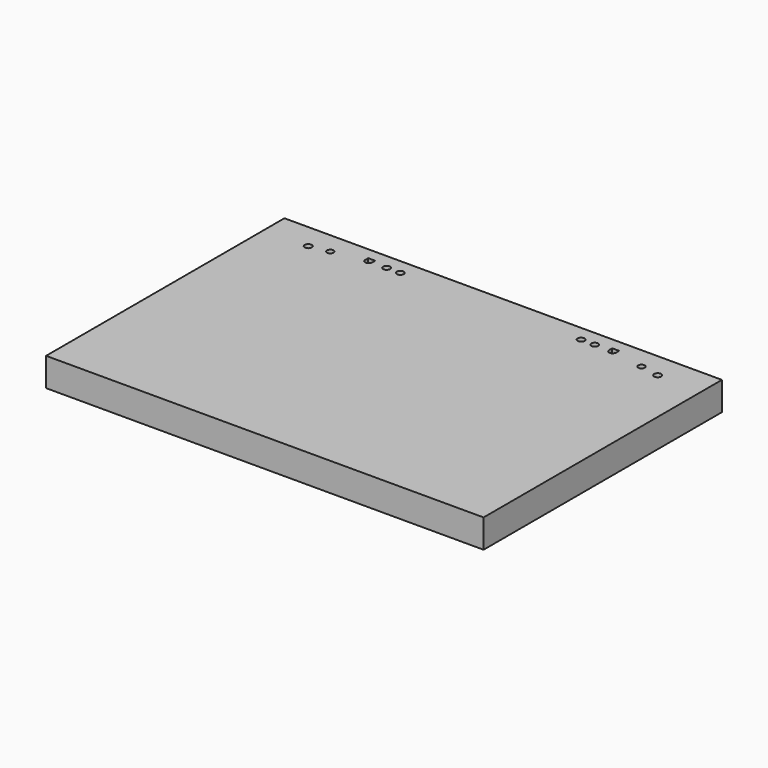
from build123d import *

# Parameters (mm, degrees)
F0_W     = 192.0875
F0_H     = 261.62
F0_R     = 3.048
F0_R_2   = 2.8575
F0_R_3   = 3.1115
F1_DEPTH = 25


with BuildPart() as f1:
    # F0 (on Top) → F1 (new body)
    with BuildSketch(Plane.XY):
        with Locations((-97.6657310909, -15.2465730985)):
            Rectangle(F0_W, F0_H)
        Polygon((-159.5464810909, 107.4395775795), (-75.4724810909, 107.4395775795), (-75.4724810909, 88.3854269015), (-159.5464810909, 88.3854269015), (-159.5464810909, 100.9584269015), align=None, mode=Mode.SUBTRACT)
        with Locations((94.4217689091, -15.2465730985)):
            Rectangle(F0_W, F0_H)
        Polygon((156.3025189091, 88.3854269015), (72.2285189091, 88.3854269015), (72.2285189091, 107.4395775795), (156.3025189091, 107.4395775795), (156.3025189091, 100.9584269015), align=None, mode=Mode.SUBTRACT)
        Polygon((72.2285189091, 107.4395775795), (72.2285189091, 88.3854269015), (156.3025189091, 88.3854269015), (156.3025189091, 100.9584269015), (156.3025189091, 107.4395775795), align=None)
        with Locations((77.7657189091, 101.8474269015)):
            Circle(F0_R, mode=Mode.SUBTRACT)
        with Locations((89.7545189091, 101.8474269015)):
            Circle(F0_R, mode=Mode.SUBTRACT)
        with Locations((135.0300189091, 96.5769269015)):
            Circle(F0_R_2, mode=Mode.SUBTRACT)
        with BuildLine():
            ThreePointArc((108.5505189091, 101.8474269015), (105.5025189091, 98.7994269015), (102.4545189091, 101.8474269015))
            Line((102.4545189091, 101.8474269015), (102.4545189091, 105.1494269015))
            Line((102.4545189091, 105.1494269015), (108.5505189091, 105.1494269015))
            Line((108.5505189091, 105.1494269015), (108.5505189091, 101.8474269015))
        make_face(mode=Mode.SUBTRACT)
        with Locations((151.7940189091, 93.4019269015)):
            Circle(F0_R_3, mode=Mode.SUBTRACT)
        Polygon((-75.4724810909, 88.3854269015), (-75.4724810909, 107.4395775795), (-159.5464810909, 107.4395775795), (-159.5464810909, 100.9584269015), (-159.5464810909, 88.3854269015), align=None)
        with Locations((-155.0379810909, 93.4019269015)):
            Circle(F0_R_3, mode=Mode.SUBTRACT)
        with Locations((-138.2739810909, 96.5769269015)):
            Circle(F0_R_2, mode=Mode.SUBTRACT)
        with BuildLine():
            Line((-105.6984810909, 105.1494269015), (-105.6984810909, 101.8474269015))
            ThreePointArc((-105.6984810909, 101.8474269015), (-108.7464810909, 98.7994269015), (-111.7944810909, 101.8474269015))
            Line((-111.7944810909, 101.8474269015), (-111.7944810909, 105.1494269015))
            Line((-111.7944810909, 105.1494269015), (-105.6984810909, 105.1494269015))
        make_face(mode=Mode.SUBTRACT)
        with Locations((-92.9984810909, 101.8474269015)):
            Circle(F0_R, mode=Mode.SUBTRACT)
        with Locations((-81.0096810909, 101.8474269015)):
            Circle(F0_R, mode=Mode.SUBTRACT)
    extrude(amount=F1_DEPTH)


solid = f1.part
